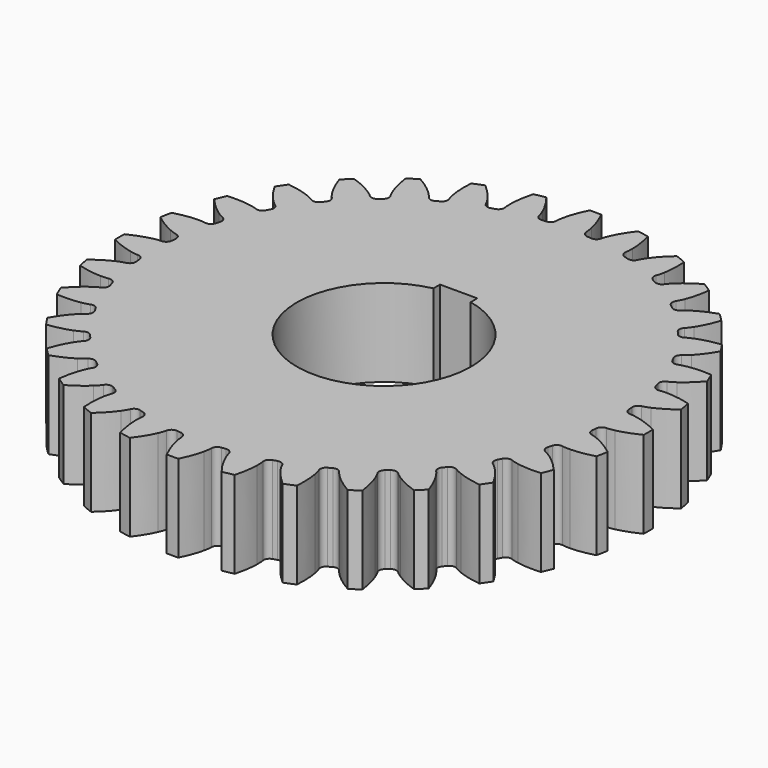
from build123d import *

# Parameters (mm, degrees)
PAD_DEPTH    = 7
POCKET_DEPTH = 7.001


with BuildPart() as part:
    # InvoluteGear → Pad (new body)
    with BuildSketch(Plane.XY):
        with BuildLine():
            add(Edge.make_bspline(
                [(18.836138, -1.202007), (18.942756, -1.198921), (19.152834, -1.183162), (19.463824, -1.116495)],
                knots=[0, 0, 0, 0, 1, 1, 1, 1], degree=3))
            add(Edge.make_bspline(
                [(19.463824, -1.116495), (19.890094, -1.024616), (20.495342, -0.838633), (21.24604, -0.463992)],
                knots=[0, 0, 0, 0, 1, 1, 1, 1], degree=3))
            ThreePointArc((21.24604, -0.463992), (21.250553, 0.000202), (21.244925, 0.464383))
            add(Edge.make_bspline(
                [(21.244925, 0.464383), (20.495342, 0.838633), (19.890094, 1.024616), (19.463824, 1.116495)],
                knots=[0, 0, 0, 0, 1, 1, 1, 1], degree=3))
            add(Edge.make_bspline(
                [(19.463824, 1.116495), (19.152834, 1.183162), (18.942756, 1.198921), (18.836467, 1.201988)],
                knots=[0, 0, 0, 0, 1, 1, 1, 1], degree=3))
            ThreePointArc((18.836467, 1.201988), (18.51666, 1.32718), (18.364841, 1.63524))
            ThreePointArc((18.364841, 1.63524), (18.348718, 1.807191), (18.330986, 1.978984))
            ThreePointArc((18.330986, 1.978984), (18.419699, 2.310599), (18.708707, 2.495837))
            add(Edge.make_bspline(
                [(18.708707, 2.495837), (18.812674, 2.519664), (19.015641, 2.576105), (19.30765, 2.702162)],
                knots=[0, 0, 0, 0, 1, 1, 1, 1], degree=3))
            add(Edge.make_bspline(
                [(19.30765, 2.702162), (19.707804, 2.875437), (20.265139, 3.175924), (20.928324, 3.68982)],
                knots=[0, 0, 0, 0, 1, 1, 1, 1], degree=3))
            ThreePointArc((20.928324, 3.68982), (20.842191, 4.145975), (20.746113, 4.60014))
            add(Edge.make_bspline(
                [(20.746113, 4.60014), (19.937921, 4.820962), (19.308019, 4.885293), (18.872015, 4.892246)],
                knots=[0, 0, 0, 0, 1, 1, 1, 1], degree=3))
            add(Edge.make_bspline(
                [(18.872015, 4.892246), (18.553994, 4.89696), (18.344878, 4.871432), (18.240033, 4.853704)],
                knots=[0, 0, 0, 0, 1, 1, 1, 1], degree=3))
            ThreePointArc((18.240033, 4.853704), (17.901948, 4.9141), (17.692947, 5.186622))
            ThreePointArc((17.692947, 5.186622), (17.643587, 5.352124), (17.59268, 5.517156))
            ThreePointArc((17.59268, 5.517156), (17.614994, 5.859707), (17.862311, 6.097768))
            add(Edge.make_bspline(
                [(17.862311, 6.097768), (17.959632, 6.14142), (18.147688, 6.236373), (18.409493, 6.416976)],
                knots=[0, 0, 0, 0, 1, 1, 1, 1], degree=3))
            add(Edge.make_bspline(
                [(18.409493, 6.416976), (18.768154, 6.664988), (19.256158, 7.068432), (19.806344, 7.701834)],
                knots=[0, 0, 0, 0, 1, 1, 1, 1], degree=3))
            ThreePointArc((19.806344, 7.701834), (19.632874, 8.132421), (19.45004, 8.559115))
            add(Edge.make_bspline(
                [(19.45004, 8.559115), (18.614296, 8.618024), (17.983947, 8.558231), (17.554965, 8.47999)],
                knots=[0, 0, 0, 0, 1, 1, 1, 1], degree=3))
            add(Edge.make_bspline(
                [(17.554965, 8.47999), (17.242135, 8.422571), (17.042017, 8.356737), (16.942645, 8.318896)],
                knots=[0, 0, 0, 0, 1, 1, 1, 1], degree=3))
            ThreePointArc((16.942645, 8.318896), (16.599273, 8.312174), (16.341122, 8.538685))
            ThreePointArc((16.341122, 8.538685), (16.260423, 8.691377), (16.178298, 8.843307))
            ThreePointArc((16.178298, 8.843307), (16.133355, 9.183629), (16.329476, 9.465365))
            add(Edge.make_bspline(
                [(16.329476, 9.465365), (16.416411, 9.527165), (16.582329, 9.656981), (16.80387, 9.885189)],
                knots=[0, 0, 0, 0, 1, 1, 1, 1], degree=3))
            add(Edge.make_bspline(
                [(16.80387, 9.885189), (17.107255, 10.198407), (17.507174, 10.689304), (17.923217, 11.417872)],
                knots=[0, 0, 0, 0, 1, 1, 1, 1], degree=3))
            ThreePointArc((17.923217, 11.417872), (17.669077, 11.806342), (17.406512, 12.189169))
            add(Edge.make_bspline(
                [(17.406512, 12.189169), (16.575335, 12.0839), (15.968763, 11.902281), (15.563287, 11.741853)],
                knots=[0, 0, 0, 0, 1, 1, 1, 1], degree=3))
            add(Edge.make_bspline(
                [(15.563287, 11.741853), (15.26767, 11.624508), (15.084241, 11.520898), (14.994161, 11.464397)],
                knots=[0, 0, 0, 0, 1, 1, 1, 1], degree=3))
            ThreePointArc((14.994161, 11.464397), (14.658698, 11.390815), (14.361317, 11.562611))
            ThreePointArc((14.361317, 11.562611), (14.25238, 11.696626), (14.142193, 11.829615))
            ThreePointArc((14.142193, 11.829615), (14.03172, 12.154629), (14.169109, 12.469213))
            add(Edge.make_bspline(
                [(14.169109, 12.469213), (14.242316, 12.546786), (14.379721, 12.706477), (14.552484, 12.973521)],
                knots=[0, 0, 0, 0, 1, 1, 1, 1], degree=3))
            add(Edge.make_bspline(
                [(14.552484, 12.973521), (14.788933, 13.339908), (15.085398, 13.899393), (15.351311, 14.695127)],
                knots=[0, 0, 0, 0, 1, 1, 1, 1], degree=3))
            ThreePointArc((15.351311, 14.695127), (15.026268, 15.026553), (14.694062, 15.350799))
            add(Edge.make_bspline(
                [(14.694062, 15.350799), (13.899393, 15.085398), (13.339908, 14.788933), (12.973521, 14.552484)],
                knots=[0, 0, 0, 0, 1, 1, 1, 1], degree=3))
            add(Edge.make_bspline(
                [(12.973521, 14.552484), (12.706477, 14.379721), (12.546786, 14.242316), (12.46946, 14.169327)],
                knots=[0, 0, 0, 0, 1, 1, 1, 1], degree=3))
            ThreePointArc((12.46946, 14.169327), (12.154798, 14.031714), (11.829615, 14.142193))
            ThreePointArc((11.829615, 14.142193), (11.696626, 14.25238), (11.562611, 14.361317))
            ThreePointArc((11.562611, 14.361317), (11.390853, 14.658534), (11.46423, 14.993877))
            add(Edge.make_bspline(
                [(11.46423, 14.993877), (11.520898, 15.084241), (11.624508, 15.26767), (11.741853, 15.563287)],
                knots=[0, 0, 0, 0, 1, 1, 1, 1], degree=3))
            add(Edge.make_bspline(
                [(11.741853, 15.563287), (11.902281, 15.968763), (12.0839, 16.575335), (12.189463, 17.407656)],
                knots=[0, 0, 0, 0, 1, 1, 1, 1], degree=3))
            ThreePointArc((12.189463, 17.407656), (11.806007, 17.669301), (11.416927, 17.922507))
            add(Edge.make_bspline(
                [(11.416927, 17.922507), (10.689304, 17.507174), (10.198407, 17.107255), (9.885189, 16.80387)],
                knots=[0, 0, 0, 0, 1, 1, 1, 1], degree=3))
            add(Edge.make_bspline(
                [(9.885189, 16.80387), (9.656981, 16.582329), (9.527165, 16.416411), (9.465564, 16.329738)],
                knots=[0, 0, 0, 0, 1, 1, 1, 1], degree=3))
            ThreePointArc((9.465564, 16.329738), (9.183795, 16.133382), (8.843307, 16.178298))
            ThreePointArc((8.843307, 16.178298), (8.691377, 16.260423), (8.538685, 16.341122))
            ThreePointArc((8.538685, 16.341122), (8.312243, 16.59912), (8.318788, 16.942334))
            add(Edge.make_bspline(
                [(8.318788, 16.942334), (8.356737, 17.042017), (8.422571, 17.242135), (8.47999, 17.554965)],
                knots=[0, 0, 0, 0, 1, 1, 1, 1], degree=3))
            add(Edge.make_bspline(
                [(8.47999, 17.554965), (8.558231, 17.983947), (8.618024, 18.614296), (8.559181, 19.45122)],
                knots=[0, 0, 0, 0, 1, 1, 1, 1], degree=3))
            ThreePointArc((8.559181, 19.45122), (8.132048, 19.633028), (7.701047, 19.805463))
            add(Edge.make_bspline(
                [(7.701047, 19.805463), (7.068432, 19.256158), (6.664988, 18.768154), (6.416976, 18.409493)],
                knots=[0, 0, 0, 0, 1, 1, 1, 1], degree=3))
            add(Edge.make_bspline(
                [(6.416976, 18.409493), (6.236373, 18.147688), (6.14142, 17.959632), (6.097912, 17.862607)],
                knots=[0, 0, 0, 0, 1, 1, 1, 1], degree=3))
            ThreePointArc((6.097912, 17.862607), (5.859864, 17.615053), (5.517156, 17.59268))
            ThreePointArc((5.517156, 17.59268), (5.352124, 17.643587), (5.186622, 17.692947))
            ThreePointArc((5.186622, 17.692947), (4.914198, 17.901811), (4.853659, 18.239707))
            add(Edge.make_bspline(
                [(4.853659, 18.239707), (4.871432, 18.344878), (4.89696, 18.553994), (4.892246, 18.872015)],
                knots=[0, 0, 0, 0, 1, 1, 1, 1], degree=3))
            add(Edge.make_bspline(
                [(4.892246, 18.872015), (4.885293, 19.308019), (4.820962, 19.937921), (4.599974, 20.747283)],
                knots=[0, 0, 0, 0, 1, 1, 1, 1], degree=3))
            ThreePointArc((4.599974, 20.747283), (4.14558, 20.842269), (3.689219, 20.927307))
            add(Edge.make_bspline(
                [(3.689219, 20.927307), (3.175924, 20.265139), (2.875437, 19.707804), (2.702162, 19.30765)],
                knots=[0, 0, 0, 0, 1, 1, 1, 1], degree=3))
            add(Edge.make_bspline(
                [(2.702162, 19.30765), (2.576105, 19.015641), (2.519664, 18.812674), (2.49592, 18.709025)],
                knots=[0, 0, 0, 0, 1, 1, 1, 1], degree=3))
            ThreePointArc((2.49592, 18.709025), (2.310742, 18.419788), (1.978984, 18.330986))
            ThreePointArc((1.978984, 18.330986), (1.807191, 18.348718), (1.63524, 18.364841))
            ThreePointArc((1.63524, 18.364841), (1.327303, 18.516545), (1.202007, 18.836138))
            add(Edge.make_bspline(
                [(1.202007, 18.836138), (1.198921, 18.942756), (1.183162, 19.152834), (1.116495, 19.463824)],
                knots=[0, 0, 0, 0, 1, 1, 1, 1], degree=3))
            add(Edge.make_bspline(
                [(1.116495, 19.463824), (1.024616, 19.890094), (0.838633, 20.495342), (0.463992, 21.24604)],
                knots=[0, 0, 0, 0, 1, 1, 1, 1], degree=3))
            ThreePointArc((0.463992, 21.24604), (-0.000202, 21.250553), (-0.464383, 21.244925))
            add(Edge.make_bspline(
                [(-0.464383, 21.244925), (-0.838633, 20.495342), (-1.024616, 19.890094), (-1.116495, 19.463824)],
                knots=[0, 0, 0, 0, 1, 1, 1, 1], degree=3))
            add(Edge.make_bspline(
                [(-1.116495, 19.463824), (-1.183162, 19.152834), (-1.198921, 18.942756), (-1.201988, 18.836467)],
                knots=[0, 0, 0, 0, 1, 1, 1, 1], degree=3))
            ThreePointArc((-1.201988, 18.836467), (-1.32718, 18.51666), (-1.63524, 18.364841))
            ThreePointArc((-1.63524, 18.364841), (-1.807191, 18.348718), (-1.978984, 18.330986))
            ThreePointArc((-1.978984, 18.330986), (-2.310599, 18.419699), (-2.495837, 18.708707))
            add(Edge.make_bspline(
                [(-2.495837, 18.708707), (-2.519664, 18.812674), (-2.576105, 19.015641), (-2.702162, 19.30765)],
                knots=[0, 0, 0, 0, 1, 1, 1, 1], degree=3))
            add(Edge.make_bspline(
                [(-2.702162, 19.30765), (-2.875437, 19.707804), (-3.175924, 20.265139), (-3.68982, 20.928324)],
                knots=[0, 0, 0, 0, 1, 1, 1, 1], degree=3))
            ThreePointArc((-3.68982, 20.928324), (-4.145975, 20.842191), (-4.60014, 20.746113))
            add(Edge.make_bspline(
                [(-4.60014, 20.746113), (-4.820962, 19.937921), (-4.885293, 19.308019), (-4.892246, 18.872015)],
                knots=[0, 0, 0, 0, 1, 1, 1, 1], degree=3))
            add(Edge.make_bspline(
                [(-4.892246, 18.872015), (-4.89696, 18.553994), (-4.871432, 18.344878), (-4.853704, 18.240033)],
                knots=[0, 0, 0, 0, 1, 1, 1, 1], degree=3))
            ThreePointArc((-4.853704, 18.240033), (-4.9141, 17.901948), (-5.186622, 17.692947))
            ThreePointArc((-5.186622, 17.692947), (-5.352124, 17.643587), (-5.517156, 17.59268))
            ThreePointArc((-5.517156, 17.59268), (-5.859707, 17.614994), (-6.097768, 17.862311))
            add(Edge.make_bspline(
                [(-6.097768, 17.862311), (-6.14142, 17.959632), (-6.236373, 18.147688), (-6.416976, 18.409493)],
                knots=[0, 0, 0, 0, 1, 1, 1, 1], degree=3))
            add(Edge.make_bspline(
                [(-6.416976, 18.409493), (-6.664988, 18.768154), (-7.068432, 19.256158), (-7.701834, 19.806344)],
                knots=[0, 0, 0, 0, 1, 1, 1, 1], degree=3))
            ThreePointArc((-7.701834, 19.806344), (-8.132421, 19.632874), (-8.559115, 19.45004))
            add(Edge.make_bspline(
                [(-8.559115, 19.45004), (-8.618024, 18.614296), (-8.558231, 17.983947), (-8.47999, 17.554965)],
                knots=[0, 0, 0, 0, 1, 1, 1, 1], degree=3))
            add(Edge.make_bspline(
                [(-8.47999, 17.554965), (-8.422571, 17.242135), (-8.356737, 17.042017), (-8.318896, 16.942645)],
                knots=[0, 0, 0, 0, 1, 1, 1, 1], degree=3))
            ThreePointArc((-8.318896, 16.942645), (-8.312174, 16.599273), (-8.538685, 16.341122))
            ThreePointArc((-8.538685, 16.341122), (-8.691377, 16.260423), (-8.843307, 16.178298))
            ThreePointArc((-8.843307, 16.178298), (-9.183629, 16.133355), (-9.465365, 16.329476))
            add(Edge.make_bspline(
                [(-9.465365, 16.329476), (-9.527165, 16.416411), (-9.656981, 16.582329), (-9.885189, 16.80387)],
                knots=[0, 0, 0, 0, 1, 1, 1, 1], degree=3))
            add(Edge.make_bspline(
                [(-9.885189, 16.80387), (-10.198407, 17.107255), (-10.689304, 17.507174), (-11.417872, 17.923217)],
                knots=[0, 0, 0, 0, 1, 1, 1, 1], degree=3))
            ThreePointArc((-11.417872, 17.923217), (-11.806342, 17.669077), (-12.189169, 17.406512))
            add(Edge.make_bspline(
                [(-12.189169, 17.406512), (-12.0839, 16.575335), (-11.902281, 15.968763), (-11.741853, 15.563287)],
                knots=[0, 0, 0, 0, 1, 1, 1, 1], degree=3))
            add(Edge.make_bspline(
                [(-11.741853, 15.563287), (-11.624508, 15.26767), (-11.520898, 15.084241), (-11.464397, 14.994161)],
                knots=[0, 0, 0, 0, 1, 1, 1, 1], degree=3))
            ThreePointArc((-11.464397, 14.994161), (-11.390815, 14.658698), (-11.562611, 14.361317))
            ThreePointArc((-11.562611, 14.361317), (-11.696626, 14.25238), (-11.829615, 14.142193))
            ThreePointArc((-11.829615, 14.142193), (-12.154629, 14.03172), (-12.469213, 14.169109))
            add(Edge.make_bspline(
                [(-12.469213, 14.169109), (-12.546786, 14.242316), (-12.706477, 14.379721), (-12.973521, 14.552484)],
                knots=[0, 0, 0, 0, 1, 1, 1, 1], degree=3))
            add(Edge.make_bspline(
                [(-12.973521, 14.552484), (-13.339908, 14.788933), (-13.899393, 15.085398), (-14.695127, 15.351311)],
                knots=[0, 0, 0, 0, 1, 1, 1, 1], degree=3))
            ThreePointArc((-14.695127, 15.351311), (-15.026553, 15.026268), (-15.350799, 14.694062))
            add(Edge.make_bspline(
                [(-15.350799, 14.694062), (-15.085398, 13.899393), (-14.788933, 13.339908), (-14.552484, 12.973521)],
                knots=[0, 0, 0, 0, 1, 1, 1, 1], degree=3))
            add(Edge.make_bspline(
                [(-14.552484, 12.973521), (-14.379721, 12.706477), (-14.242316, 12.546786), (-14.169327, 12.46946)],
                knots=[0, 0, 0, 0, 1, 1, 1, 1], degree=3))
            ThreePointArc((-14.169327, 12.46946), (-14.031714, 12.154798), (-14.142193, 11.829615))
            ThreePointArc((-14.142193, 11.829615), (-14.25238, 11.696626), (-14.361317, 11.562611))
            ThreePointArc((-14.361317, 11.562611), (-14.658534, 11.390853), (-14.993877, 11.46423))
            add(Edge.make_bspline(
                [(-14.993877, 11.46423), (-15.084241, 11.520898), (-15.26767, 11.624508), (-15.563287, 11.741853)],
                knots=[0, 0, 0, 0, 1, 1, 1, 1], degree=3))
            add(Edge.make_bspline(
                [(-15.563287, 11.741853), (-15.968763, 11.902281), (-16.575335, 12.0839), (-17.407656, 12.189463)],
                knots=[0, 0, 0, 0, 1, 1, 1, 1], degree=3))
            ThreePointArc((-17.407656, 12.189463), (-17.669301, 11.806007), (-17.922507, 11.416927))
            add(Edge.make_bspline(
                [(-17.922507, 11.416927), (-17.507174, 10.689304), (-17.107255, 10.198407), (-16.80387, 9.885189)],
                knots=[0, 0, 0, 0, 1, 1, 1, 1], degree=3))
            add(Edge.make_bspline(
                [(-16.80387, 9.885189), (-16.582329, 9.656981), (-16.416411, 9.527165), (-16.329738, 9.465564)],
                knots=[0, 0, 0, 0, 1, 1, 1, 1], degree=3))
            ThreePointArc((-16.329738, 9.465564), (-16.133382, 9.183795), (-16.178298, 8.843307))
            ThreePointArc((-16.178298, 8.843307), (-16.260423, 8.691377), (-16.341122, 8.538685))
            ThreePointArc((-16.341122, 8.538685), (-16.59912, 8.312243), (-16.942334, 8.318788))
            add(Edge.make_bspline(
                [(-16.942334, 8.318788), (-17.042017, 8.356737), (-17.242135, 8.422571), (-17.554965, 8.47999)],
                knots=[0, 0, 0, 0, 1, 1, 1, 1], degree=3))
            add(Edge.make_bspline(
                [(-17.554965, 8.47999), (-17.983947, 8.558231), (-18.614296, 8.618024), (-19.45122, 8.559181)],
                knots=[0, 0, 0, 0, 1, 1, 1, 1], degree=3))
            ThreePointArc((-19.45122, 8.559181), (-19.633028, 8.132048), (-19.805463, 7.701047))
            add(Edge.make_bspline(
                [(-19.805463, 7.701047), (-19.256158, 7.068432), (-18.768154, 6.664988), (-18.409493, 6.416976)],
                knots=[0, 0, 0, 0, 1, 1, 1, 1], degree=3))
            add(Edge.make_bspline(
                [(-18.409493, 6.416976), (-18.147688, 6.236373), (-17.959632, 6.14142), (-17.862607, 6.097912)],
                knots=[0, 0, 0, 0, 1, 1, 1, 1], degree=3))
            ThreePointArc((-17.862607, 6.097912), (-17.615053, 5.859864), (-17.59268, 5.517156))
            ThreePointArc((-17.59268, 5.517156), (-17.643587, 5.352124), (-17.692947, 5.186622))
            ThreePointArc((-17.692947, 5.186622), (-17.901811, 4.914198), (-18.239707, 4.853659))
            add(Edge.make_bspline(
                [(-18.239707, 4.853659), (-18.344878, 4.871432), (-18.553994, 4.89696), (-18.872015, 4.892246)],
                knots=[0, 0, 0, 0, 1, 1, 1, 1], degree=3))
            add(Edge.make_bspline(
                [(-18.872015, 4.892246), (-19.308019, 4.885293), (-19.937921, 4.820962), (-20.747283, 4.599974)],
                knots=[0, 0, 0, 0, 1, 1, 1, 1], degree=3))
            ThreePointArc((-20.747283, 4.599974), (-20.842269, 4.14558), (-20.927307, 3.689219))
            add(Edge.make_bspline(
                [(-20.927307, 3.689219), (-20.265139, 3.175924), (-19.707804, 2.875437), (-19.30765, 2.702162)],
                knots=[0, 0, 0, 0, 1, 1, 1, 1], degree=3))
            add(Edge.make_bspline(
                [(-19.30765, 2.702162), (-19.015641, 2.576105), (-18.812674, 2.519664), (-18.709025, 2.49592)],
                knots=[0, 0, 0, 0, 1, 1, 1, 1], degree=3))
            ThreePointArc((-18.709025, 2.49592), (-18.419788, 2.310742), (-18.330986, 1.978984))
            ThreePointArc((-18.330986, 1.978984), (-18.348718, 1.807191), (-18.364841, 1.63524))
            ThreePointArc((-18.364841, 1.63524), (-18.516545, 1.327303), (-18.836138, 1.202007))
            add(Edge.make_bspline(
                [(-18.836138, 1.202007), (-18.942756, 1.198921), (-19.152834, 1.183162), (-19.463824, 1.116495)],
                knots=[0, 0, 0, 0, 1, 1, 1, 1], degree=3))
            add(Edge.make_bspline(
                [(-19.463824, 1.116495), (-19.890094, 1.024616), (-20.495342, 0.838633), (-21.24604, 0.463992)],
                knots=[0, 0, 0, 0, 1, 1, 1, 1], degree=3))
            ThreePointArc((-21.24604, 0.463992), (-21.250553, -0.000202), (-21.244925, -0.464383))
            add(Edge.make_bspline(
                [(-21.244925, -0.464383), (-20.495342, -0.838633), (-19.890094, -1.024616), (-19.463824, -1.116495)],
                knots=[0, 0, 0, 0, 1, 1, 1, 1], degree=3))
            add(Edge.make_bspline(
                [(-19.463824, -1.116495), (-19.152834, -1.183162), (-18.942756, -1.198921), (-18.836467, -1.201988)],
                knots=[0, 0, 0, 0, 1, 1, 1, 1], degree=3))
            ThreePointArc((-18.836467, -1.201988), (-18.51666, -1.32718), (-18.364841, -1.63524))
            ThreePointArc((-18.364841, -1.63524), (-18.348718, -1.807191), (-18.330986, -1.978984))
            ThreePointArc((-18.330986, -1.978984), (-18.419699, -2.310599), (-18.708707, -2.495837))
            add(Edge.make_bspline(
                [(-18.708707, -2.495837), (-18.812674, -2.519664), (-19.015641, -2.576105), (-19.30765, -2.702162)],
                knots=[0, 0, 0, 0, 1, 1, 1, 1], degree=3))
            add(Edge.make_bspline(
                [(-19.30765, -2.702162), (-19.707804, -2.875437), (-20.265139, -3.175924), (-20.928324, -3.68982)],
                knots=[0, 0, 0, 0, 1, 1, 1, 1], degree=3))
            ThreePointArc((-20.928324, -3.68982), (-20.842191, -4.145975), (-20.746113, -4.60014))
            add(Edge.make_bspline(
                [(-20.746113, -4.60014), (-19.937921, -4.820962), (-19.308019, -4.885293), (-18.872015, -4.892246)],
                knots=[0, 0, 0, 0, 1, 1, 1, 1], degree=3))
            add(Edge.make_bspline(
                [(-18.872015, -4.892246), (-18.553994, -4.89696), (-18.344878, -4.871432), (-18.240033, -4.853704)],
                knots=[0, 0, 0, 0, 1, 1, 1, 1], degree=3))
            ThreePointArc((-18.240033, -4.853704), (-17.901948, -4.9141), (-17.692947, -5.186622))
            ThreePointArc((-17.692947, -5.186622), (-17.643587, -5.352124), (-17.59268, -5.517156))
            ThreePointArc((-17.59268, -5.517156), (-17.614994, -5.859707), (-17.862311, -6.097768))
            add(Edge.make_bspline(
                [(-17.862311, -6.097768), (-17.959632, -6.14142), (-18.147688, -6.236373), (-18.409493, -6.416976)],
                knots=[0, 0, 0, 0, 1, 1, 1, 1], degree=3))
            add(Edge.make_bspline(
                [(-18.409493, -6.416976), (-18.768154, -6.664988), (-19.256158, -7.068432), (-19.806344, -7.701834)],
                knots=[0, 0, 0, 0, 1, 1, 1, 1], degree=3))
            ThreePointArc((-19.806344, -7.701834), (-19.632874, -8.132421), (-19.45004, -8.559115))
            add(Edge.make_bspline(
                [(-19.45004, -8.559115), (-18.614296, -8.618024), (-17.983947, -8.558231), (-17.554965, -8.47999)],
                knots=[0, 0, 0, 0, 1, 1, 1, 1], degree=3))
            add(Edge.make_bspline(
                [(-17.554965, -8.47999), (-17.242135, -8.422571), (-17.042017, -8.356737), (-16.942645, -8.318896)],
                knots=[0, 0, 0, 0, 1, 1, 1, 1], degree=3))
            ThreePointArc((-16.942645, -8.318896), (-16.599273, -8.312174), (-16.341122, -8.538685))
            ThreePointArc((-16.341122, -8.538685), (-16.260423, -8.691377), (-16.178298, -8.843307))
            ThreePointArc((-16.178298, -8.843307), (-16.133355, -9.183629), (-16.329476, -9.465365))
            add(Edge.make_bspline(
                [(-16.329476, -9.465365), (-16.416411, -9.527165), (-16.582329, -9.656981), (-16.80387, -9.885189)],
                knots=[0, 0, 0, 0, 1, 1, 1, 1], degree=3))
            add(Edge.make_bspline(
                [(-16.80387, -9.885189), (-17.107255, -10.198407), (-17.507174, -10.689304), (-17.923217, -11.417872)],
                knots=[0, 0, 0, 0, 1, 1, 1, 1], degree=3))
            ThreePointArc((-17.923217, -11.417872), (-17.669077, -11.806342), (-17.406512, -12.189169))
            add(Edge.make_bspline(
                [(-17.406512, -12.189169), (-16.575335, -12.0839), (-15.968763, -11.902281), (-15.563287, -11.741853)],
                knots=[0, 0, 0, 0, 1, 1, 1, 1], degree=3))
            add(Edge.make_bspline(
                [(-15.563287, -11.741853), (-15.26767, -11.624508), (-15.084241, -11.520898), (-14.994161, -11.464397)],
                knots=[0, 0, 0, 0, 1, 1, 1, 1], degree=3))
            ThreePointArc((-14.994161, -11.464397), (-14.658698, -11.390815), (-14.361317, -11.562611))
            ThreePointArc((-14.361317, -11.562611), (-14.25238, -11.696626), (-14.142193, -11.829615))
            ThreePointArc((-14.142193, -11.829615), (-14.03172, -12.154629), (-14.169109, -12.469213))
            add(Edge.make_bspline(
                [(-14.169109, -12.469213), (-14.242316, -12.546786), (-14.379721, -12.706477), (-14.552484, -12.973521)],
                knots=[0, 0, 0, 0, 1, 1, 1, 1], degree=3))
            add(Edge.make_bspline(
                [(-14.552484, -12.973521), (-14.788933, -13.339908), (-15.085398, -13.899393), (-15.351311, -14.695127)],
                knots=[0, 0, 0, 0, 1, 1, 1, 1], degree=3))
            ThreePointArc((-15.351311, -14.695127), (-15.026268, -15.026553), (-14.694062, -15.350799))
            add(Edge.make_bspline(
                [(-14.694062, -15.350799), (-13.899393, -15.085398), (-13.339908, -14.788933), (-12.973521, -14.552484)],
                knots=[0, 0, 0, 0, 1, 1, 1, 1], degree=3))
            add(Edge.make_bspline(
                [(-12.973521, -14.552484), (-12.706477, -14.379721), (-12.546786, -14.242316), (-12.46946, -14.169327)],
                knots=[0, 0, 0, 0, 1, 1, 1, 1], degree=3))
            ThreePointArc((-12.46946, -14.169327), (-12.154798, -14.031714), (-11.829615, -14.142193))
            ThreePointArc((-11.829615, -14.142193), (-11.696626, -14.25238), (-11.562611, -14.361317))
            ThreePointArc((-11.562611, -14.361317), (-11.390853, -14.658534), (-11.46423, -14.993877))
            add(Edge.make_bspline(
                [(-11.46423, -14.993877), (-11.520898, -15.084241), (-11.624508, -15.26767), (-11.741853, -15.563287)],
                knots=[0, 0, 0, 0, 1, 1, 1, 1], degree=3))
            add(Edge.make_bspline(
                [(-11.741853, -15.563287), (-11.902281, -15.968763), (-12.0839, -16.575335), (-12.189463, -17.407656)],
                knots=[0, 0, 0, 0, 1, 1, 1, 1], degree=3))
            ThreePointArc((-12.189463, -17.407656), (-11.806007, -17.669301), (-11.416927, -17.922507))
            add(Edge.make_bspline(
                [(-11.416927, -17.922507), (-10.689304, -17.507174), (-10.198407, -17.107255), (-9.885189, -16.80387)],
                knots=[0, 0, 0, 0, 1, 1, 1, 1], degree=3))
            add(Edge.make_bspline(
                [(-9.885189, -16.80387), (-9.656981, -16.582329), (-9.527165, -16.416411), (-9.465564, -16.329738)],
                knots=[0, 0, 0, 0, 1, 1, 1, 1], degree=3))
            ThreePointArc((-9.465564, -16.329738), (-9.183795, -16.133382), (-8.843307, -16.178298))
            ThreePointArc((-8.843307, -16.178298), (-8.691377, -16.260423), (-8.538685, -16.341122))
            ThreePointArc((-8.538685, -16.341122), (-8.312243, -16.59912), (-8.318788, -16.942334))
            add(Edge.make_bspline(
                [(-8.318788, -16.942334), (-8.356737, -17.042017), (-8.422571, -17.242135), (-8.47999, -17.554965)],
                knots=[0, 0, 0, 0, 1, 1, 1, 1], degree=3))
            add(Edge.make_bspline(
                [(-8.47999, -17.554965), (-8.558231, -17.983947), (-8.618024, -18.614296), (-8.559181, -19.45122)],
                knots=[0, 0, 0, 0, 1, 1, 1, 1], degree=3))
            ThreePointArc((-8.559181, -19.45122), (-8.132048, -19.633028), (-7.701047, -19.805463))
            add(Edge.make_bspline(
                [(-7.701047, -19.805463), (-7.068432, -19.256158), (-6.664988, -18.768154), (-6.416976, -18.409493)],
                knots=[0, 0, 0, 0, 1, 1, 1, 1], degree=3))
            add(Edge.make_bspline(
                [(-6.416976, -18.409493), (-6.236373, -18.147688), (-6.14142, -17.959632), (-6.097912, -17.862607)],
                knots=[0, 0, 0, 0, 1, 1, 1, 1], degree=3))
            ThreePointArc((-6.097912, -17.862607), (-5.859864, -17.615053), (-5.517156, -17.59268))
            ThreePointArc((-5.517156, -17.59268), (-5.352124, -17.643587), (-5.186622, -17.692947))
            ThreePointArc((-5.186622, -17.692947), (-4.914198, -17.901811), (-4.853659, -18.239707))
            add(Edge.make_bspline(
                [(-4.853659, -18.239707), (-4.871432, -18.344878), (-4.89696, -18.553994), (-4.892246, -18.872015)],
                knots=[0, 0, 0, 0, 1, 1, 1, 1], degree=3))
            add(Edge.make_bspline(
                [(-4.892246, -18.872015), (-4.885293, -19.308019), (-4.820962, -19.937921), (-4.599974, -20.747283)],
                knots=[0, 0, 0, 0, 1, 1, 1, 1], degree=3))
            ThreePointArc((-4.599974, -20.747283), (-4.14558, -20.842269), (-3.689219, -20.927307))
            add(Edge.make_bspline(
                [(-3.689219, -20.927307), (-3.175924, -20.265139), (-2.875437, -19.707804), (-2.702162, -19.30765)],
                knots=[0, 0, 0, 0, 1, 1, 1, 1], degree=3))
            add(Edge.make_bspline(
                [(-2.702162, -19.30765), (-2.576105, -19.015641), (-2.519664, -18.812674), (-2.49592, -18.709025)],
                knots=[0, 0, 0, 0, 1, 1, 1, 1], degree=3))
            ThreePointArc((-2.49592, -18.709025), (-2.310742, -18.419788), (-1.978984, -18.330986))
            ThreePointArc((-1.978984, -18.330986), (-1.807191, -18.348718), (-1.63524, -18.364841))
            ThreePointArc((-1.63524, -18.364841), (-1.327303, -18.516545), (-1.202007, -18.836138))
            add(Edge.make_bspline(
                [(-1.202007, -18.836138), (-1.198921, -18.942756), (-1.183162, -19.152834), (-1.116495, -19.463824)],
                knots=[0, 0, 0, 0, 1, 1, 1, 1], degree=3))
            add(Edge.make_bspline(
                [(-1.116495, -19.463824), (-1.024616, -19.890094), (-0.838633, -20.495342), (-0.463992, -21.24604)],
                knots=[0, 0, 0, 0, 1, 1, 1, 1], degree=3))
            ThreePointArc((-0.463992, -21.24604), (0.000202, -21.250553), (0.464383, -21.244925))
            add(Edge.make_bspline(
                [(0.464383, -21.244925), (0.838633, -20.495342), (1.024616, -19.890094), (1.116495, -19.463824)],
                knots=[0, 0, 0, 0, 1, 1, 1, 1], degree=3))
            add(Edge.make_bspline(
                [(1.116495, -19.463824), (1.183162, -19.152834), (1.198921, -18.942756), (1.201988, -18.836467)],
                knots=[0, 0, 0, 0, 1, 1, 1, 1], degree=3))
            ThreePointArc((1.201988, -18.836467), (1.32718, -18.51666), (1.63524, -18.364841))
            ThreePointArc((1.63524, -18.364841), (1.807191, -18.348718), (1.978984, -18.330986))
            ThreePointArc((1.978984, -18.330986), (2.310599, -18.419699), (2.495837, -18.708707))
            add(Edge.make_bspline(
                [(2.495837, -18.708707), (2.519664, -18.812674), (2.576105, -19.015641), (2.702162, -19.30765)],
                knots=[0, 0, 0, 0, 1, 1, 1, 1], degree=3))
            add(Edge.make_bspline(
                [(2.702162, -19.30765), (2.875437, -19.707804), (3.175924, -20.265139), (3.68982, -20.928324)],
                knots=[0, 0, 0, 0, 1, 1, 1, 1], degree=3))
            ThreePointArc((3.68982, -20.928324), (4.145975, -20.842191), (4.60014, -20.746113))
            add(Edge.make_bspline(
                [(4.60014, -20.746113), (4.820962, -19.937921), (4.885293, -19.308019), (4.892246, -18.872015)],
                knots=[0, 0, 0, 0, 1, 1, 1, 1], degree=3))
            add(Edge.make_bspline(
                [(4.892246, -18.872015), (4.89696, -18.553994), (4.871432, -18.344878), (4.853704, -18.240033)],
                knots=[0, 0, 0, 0, 1, 1, 1, 1], degree=3))
            ThreePointArc((4.853704, -18.240033), (4.9141, -17.901948), (5.186622, -17.692947))
            ThreePointArc((5.186622, -17.692947), (5.352124, -17.643587), (5.517156, -17.59268))
            ThreePointArc((5.517156, -17.59268), (5.859707, -17.614994), (6.097768, -17.862311))
            add(Edge.make_bspline(
                [(6.097768, -17.862311), (6.14142, -17.959632), (6.236373, -18.147688), (6.416976, -18.409493)],
                knots=[0, 0, 0, 0, 1, 1, 1, 1], degree=3))
            add(Edge.make_bspline(
                [(6.416976, -18.409493), (6.664988, -18.768154), (7.068432, -19.256158), (7.701834, -19.806344)],
                knots=[0, 0, 0, 0, 1, 1, 1, 1], degree=3))
            ThreePointArc((7.701834, -19.806344), (8.132421, -19.632874), (8.559115, -19.45004))
            add(Edge.make_bspline(
                [(8.559115, -19.45004), (8.618024, -18.614296), (8.558231, -17.983947), (8.47999, -17.554965)],
                knots=[0, 0, 0, 0, 1, 1, 1, 1], degree=3))
            add(Edge.make_bspline(
                [(8.47999, -17.554965), (8.422571, -17.242135), (8.356737, -17.042017), (8.318896, -16.942645)],
                knots=[0, 0, 0, 0, 1, 1, 1, 1], degree=3))
            ThreePointArc((8.318896, -16.942645), (8.312174, -16.599273), (8.538685, -16.341122))
            ThreePointArc((8.538685, -16.341122), (8.691377, -16.260423), (8.843307, -16.178298))
            ThreePointArc((8.843307, -16.178298), (9.183629, -16.133355), (9.465365, -16.329476))
            add(Edge.make_bspline(
                [(9.465365, -16.329476), (9.527165, -16.416411), (9.656981, -16.582329), (9.885189, -16.80387)],
                knots=[0, 0, 0, 0, 1, 1, 1, 1], degree=3))
            add(Edge.make_bspline(
                [(9.885189, -16.80387), (10.198407, -17.107255), (10.689304, -17.507174), (11.417872, -17.923217)],
                knots=[0, 0, 0, 0, 1, 1, 1, 1], degree=3))
            ThreePointArc((11.417872, -17.923217), (11.806342, -17.669077), (12.189169, -17.406512))
            add(Edge.make_bspline(
                [(12.189169, -17.406512), (12.0839, -16.575335), (11.902281, -15.968763), (11.741853, -15.563287)],
                knots=[0, 0, 0, 0, 1, 1, 1, 1], degree=3))
            add(Edge.make_bspline(
                [(11.741853, -15.563287), (11.624508, -15.26767), (11.520898, -15.084241), (11.464397, -14.994161)],
                knots=[0, 0, 0, 0, 1, 1, 1, 1], degree=3))
            ThreePointArc((11.464397, -14.994161), (11.390815, -14.658698), (11.562611, -14.361317))
            ThreePointArc((11.562611, -14.361317), (11.696626, -14.25238), (11.829615, -14.142193))
            ThreePointArc((11.829615, -14.142193), (12.154629, -14.03172), (12.469213, -14.169109))
            add(Edge.make_bspline(
                [(12.469213, -14.169109), (12.546786, -14.242316), (12.706477, -14.379721), (12.973521, -14.552484)],
                knots=[0, 0, 0, 0, 1, 1, 1, 1], degree=3))
            add(Edge.make_bspline(
                [(12.973521, -14.552484), (13.339908, -14.788933), (13.899393, -15.085398), (14.695127, -15.351311)],
                knots=[0, 0, 0, 0, 1, 1, 1, 1], degree=3))
            ThreePointArc((14.695127, -15.351311), (15.026553, -15.026268), (15.350799, -14.694062))
            add(Edge.make_bspline(
                [(15.350799, -14.694062), (15.085398, -13.899393), (14.788933, -13.339908), (14.552484, -12.973521)],
                knots=[0, 0, 0, 0, 1, 1, 1, 1], degree=3))
            add(Edge.make_bspline(
                [(14.552484, -12.973521), (14.379721, -12.706477), (14.242316, -12.546786), (14.169327, -12.46946)],
                knots=[0, 0, 0, 0, 1, 1, 1, 1], degree=3))
            ThreePointArc((14.169327, -12.46946), (14.031714, -12.154798), (14.142193, -11.829615))
            ThreePointArc((14.142193, -11.829615), (14.25238, -11.696626), (14.361317, -11.562611))
            ThreePointArc((14.361317, -11.562611), (14.658534, -11.390853), (14.993877, -11.46423))
            add(Edge.make_bspline(
                [(14.993877, -11.46423), (15.084241, -11.520898), (15.26767, -11.624508), (15.563287, -11.741853)],
                knots=[0, 0, 0, 0, 1, 1, 1, 1], degree=3))
            add(Edge.make_bspline(
                [(15.563287, -11.741853), (15.968763, -11.902281), (16.575335, -12.0839), (17.407656, -12.189463)],
                knots=[0, 0, 0, 0, 1, 1, 1, 1], degree=3))
            ThreePointArc((17.407656, -12.189463), (17.669301, -11.806007), (17.922507, -11.416927))
            add(Edge.make_bspline(
                [(17.922507, -11.416927), (17.507174, -10.689304), (17.107255, -10.198407), (16.80387, -9.885189)],
                knots=[0, 0, 0, 0, 1, 1, 1, 1], degree=3))
            add(Edge.make_bspline(
                [(16.80387, -9.885189), (16.582329, -9.656981), (16.416411, -9.527165), (16.329738, -9.465564)],
                knots=[0, 0, 0, 0, 1, 1, 1, 1], degree=3))
            ThreePointArc((16.329738, -9.465564), (16.133382, -9.183795), (16.178298, -8.843307))
            ThreePointArc((16.178298, -8.843307), (16.260423, -8.691377), (16.341122, -8.538685))
            ThreePointArc((16.341122, -8.538685), (16.59912, -8.312243), (16.942334, -8.318788))
            add(Edge.make_bspline(
                [(16.942334, -8.318788), (17.042017, -8.356737), (17.242135, -8.422571), (17.554965, -8.47999)],
                knots=[0, 0, 0, 0, 1, 1, 1, 1], degree=3))
            add(Edge.make_bspline(
                [(17.554965, -8.47999), (17.983947, -8.558231), (18.614296, -8.618024), (19.45122, -8.559181)],
                knots=[0, 0, 0, 0, 1, 1, 1, 1], degree=3))
            ThreePointArc((19.45122, -8.559181), (19.633028, -8.132048), (19.805463, -7.701047))
            add(Edge.make_bspline(
                [(19.805463, -7.701047), (19.256158, -7.068432), (18.768154, -6.664988), (18.409493, -6.416976)],
                knots=[0, 0, 0, 0, 1, 1, 1, 1], degree=3))
            add(Edge.make_bspline(
                [(18.409493, -6.416976), (18.147688, -6.236373), (17.959632, -6.14142), (17.862607, -6.097912)],
                knots=[0, 0, 0, 0, 1, 1, 1, 1], degree=3))
            ThreePointArc((17.862607, -6.097912), (17.615053, -5.859864), (17.59268, -5.517156))
            ThreePointArc((17.59268, -5.517156), (17.643587, -5.352124), (17.692947, -5.186622))
            ThreePointArc((17.692947, -5.186622), (17.901811, -4.914198), (18.239707, -4.853659))
            add(Edge.make_bspline(
                [(18.239707, -4.853659), (18.344878, -4.871432), (18.553994, -4.89696), (18.872015, -4.892246)],
                knots=[0, 0, 0, 0, 1, 1, 1, 1], degree=3))
            add(Edge.make_bspline(
                [(18.872015, -4.892246), (19.308019, -4.885293), (19.937921, -4.820962), (20.747283, -4.599974)],
                knots=[0, 0, 0, 0, 1, 1, 1, 1], degree=3))
            ThreePointArc((20.747283, -4.599974), (20.842269, -4.14558), (20.927307, -3.689219))
            add(Edge.make_bspline(
                [(20.927307, -3.689219), (20.265139, -3.175924), (19.707804, -2.875437), (19.30765, -2.702162)],
                knots=[0, 0, 0, 0, 1, 1, 1, 1], degree=3))
            add(Edge.make_bspline(
                [(19.30765, -2.702162), (19.015641, -2.576105), (18.812674, -2.519664), (18.709025, -2.49592)],
                knots=[0, 0, 0, 0, 1, 1, 1, 1], degree=3))
            ThreePointArc((18.709025, -2.49592), (18.419788, -2.310742), (18.330986, -1.978984))
            ThreePointArc((18.330986, -1.978984), (18.348718, -1.807191), (18.364841, -1.63524))
            ThreePointArc((18.364841, -1.63524), (18.516545, -1.327303), (18.836138, -1.202007))
        make_face()
    extrude(amount=PAD_DEPTH)

    # Sketch001 → Pocket (cut, through all)
    with BuildSketch(Plane.XY.offset(7)):
        with BuildLine():
            ThreePointArc((-1.5, 6.837397), (0, -7), (1.5, 6.837397))
            Line((1.5, 7.5), (1.5, 6.837397))
            Line((-1.5, 7.5), (1.5, 7.5))
            Line((-1.5, 7.5), (-1.5, 6.837397))
        make_face()
    extrude(amount=-POCKET_DEPTH, mode=Mode.SUBTRACT)


solid = part.part
